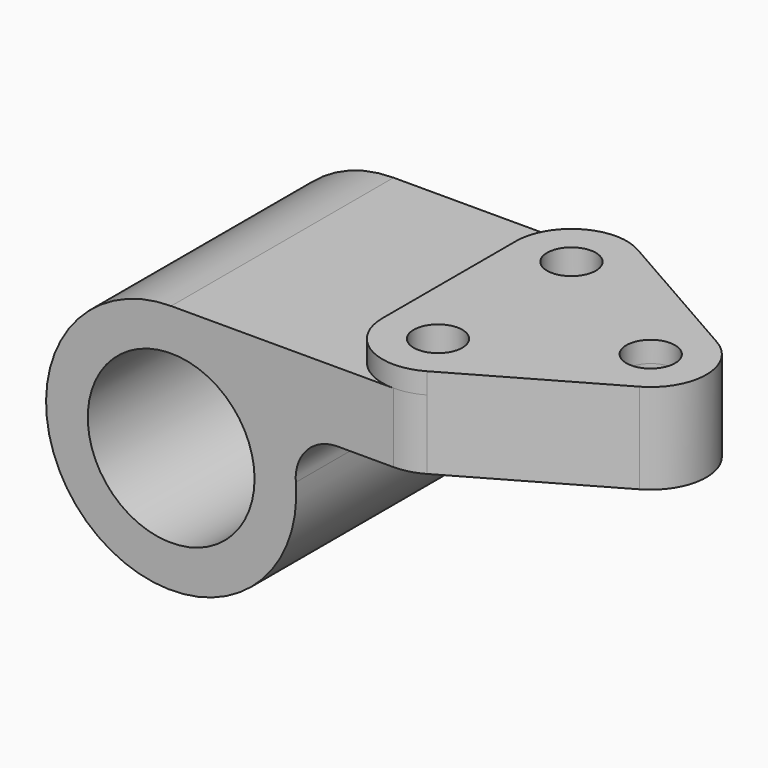
from build123d import *

# Parameters (mm, degrees)
F0_R     = 19.05
F1_DEPTH = 31.75
F2_R     = 5.5626
F3_DEPTH = 4.7752
F4_DEPTH = 57.151
F5_DEPTH = 15.875


with BuildPart() as f1:
    # F0 (on Front) → F1 (new body, symmetric)
    with BuildSketch(Plane.XZ):
        with BuildLine():
            Line((50.8, 28.575), (0, 28.575))
            ThreePointArc((0, 28.575), (-19.345366451, -21.0306305629), (28.4756083945, 2.38125))
            ThreePointArc((28.4756083945, 2.38125), (30.9572676717, 9.6234554837), (37.9674778593, 12.7))
            Line((37.9674778593, 12.7), (50.8, 12.7))
            Line((50.8, 12.7), (50.8, 28.575))
        make_face()
        Circle(F0_R, mode=Mode.SUBTRACT)
    extrude(amount=F1_DEPTH, both=True)

    # F2 (on face) → F3 (join)
    with BuildSketch(Plane.XY.offset(28.575)):
        with BuildLine():
            ThreePointArc((57.0991554441, 30.0777214642), (44.4246284085, 30.0338352623), (38.1, 19.05))
            Line((38.1, 19.05), (38.1, -19.05))
            ThreePointArc((38.1, -19.05), (44.4246284085, -30.0338352623), (57.0991554441, -30.0777214642))
            Line((57.0991554441, -30.0777214642), (90.4493554441, -11.0277214642))
            ThreePointArc((90.4493554441, -11.0277214642), (96.8502, 0), (90.4493554441, 11.0277214642))
            Line((90.4493554441, 11.0277214642), (57.0991554441, 30.0777214642))
        make_face()
        with Locations((50.8, -19.05)):
            Circle(F2_R, mode=Mode.SUBTRACT)
        with Locations((50.8, 19.05)):
            Circle(F2_R, mode=Mode.SUBTRACT)
        with Locations((84.1502, 0)):
            Circle(F2_R, mode=Mode.SUBTRACT)
    extrude(amount=F3_DEPTH)

    # F4 (cut, through all): faces of the model
    f4_faces = [f1.faces().sort_by_distance(p)[0] for p in [
        (48.4391592362, 19.05, 28.575),
        (48.4391592362, -19.05, 28.575),
    ]]
    extrude(f4_faces, amount=-F4_DEPTH, mode=Mode.SUBTRACT)

    # F5 (add): a face of the model
    f5_faces = [f1.faces().sort_by_distance(p)[0] for p in [
        (68.7389492169, 0, 28.575),
    ]]
    extrude(f5_faces, amount=F5_DEPTH)


solid = f1.part
